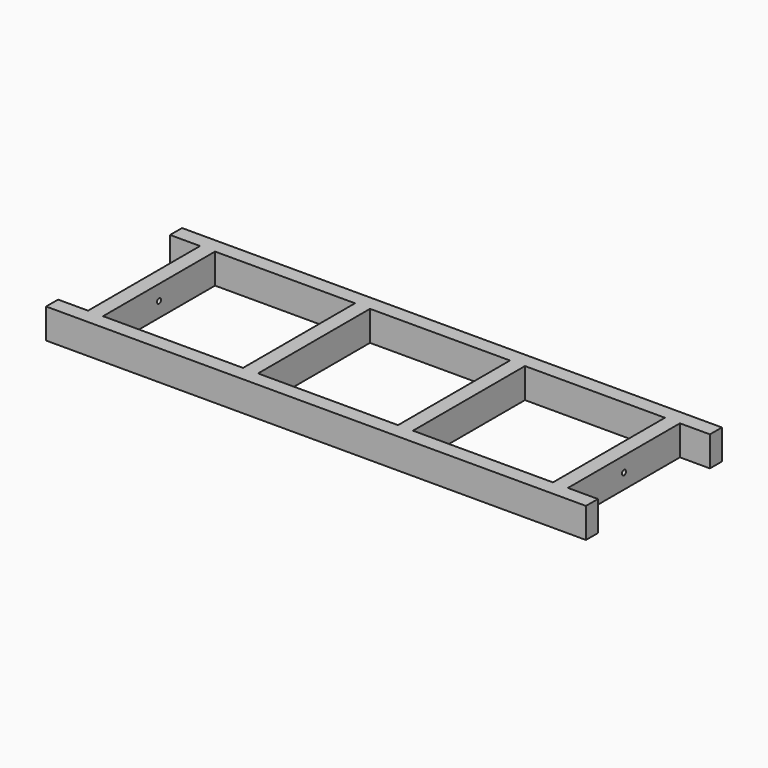
from build123d import *

# Parameters (mm, degrees)
F0_W     = 19.05
F0_H     = 177.8
F1_DEPTH = 19.05
F2_R     = 3.175
F3_DEPTH = 25.4
F4_R     = 3.175
F5_DEPTH = 25.4


with BuildPart() as f1:
    # F0 (on Top) → F1 (new body, symmetric)
    with BuildSketch(Plane.XY):
        Polygon((342.9, 107.95), (-342.9, 107.95), (-342.9, 88.9), (-304.8, 88.9), (-285.75, 88.9), (-107.95, 88.9), (-88.9, 88.9), (88.9, 88.9), (107.95, 88.9), (285.75, 88.9), (304.8, 88.9), (342.9, 88.9), align=None)
        with Locations((-295.275, 0)):
            Rectangle(F0_W, F0_H)
        with Locations((295.275, 0)):
            Rectangle(F0_W, F0_H)
        Polygon((-285.75, -88.9), (-304.8, -88.9), (-342.9, -88.9), (-342.9, -107.95), (342.9, -107.95), (342.9, -88.9), (304.8, -88.9), (285.75, -88.9), (107.95, -88.9), (88.9, -88.9), (-88.9, -88.9), (-107.95, -88.9), align=None)
        with Locations((-98.425, 0)):
            Rectangle(F0_W, F0_H)
        with Locations((98.425, 0)):
            Rectangle(F0_W, F0_H)
    extrude(amount=F1_DEPTH, both=True)

    # F2 (on face) → F3 (cut)
    with BuildSketch(Plane(origin=(-304.8, 0, 0), x_dir=(0, -1, 0), z_dir=(-1, 0, 0))):
        Circle(F2_R)
    extrude(amount=-F3_DEPTH, mode=Mode.SUBTRACT)

    # F4 (on face) → F5 (cut)
    with BuildSketch(Plane.YZ.offset(304.8)):
        Circle(F4_R)
    extrude(amount=-F5_DEPTH, mode=Mode.SUBTRACT)


solid = f1.part
